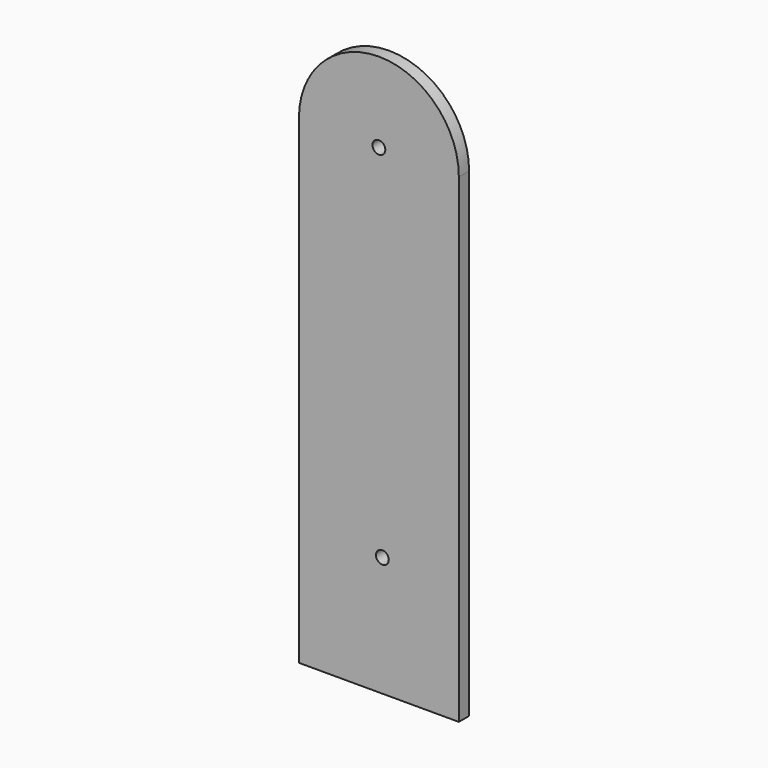
from build123d import *

# Parameters (mm, degrees)
F0_R     = 1.6
F1_DEPTH = 3.2


with BuildPart() as f1:
    # F0 (on Front) → F1 (new body)
    with BuildSketch(Plane.XZ):
        with BuildLine():
            Line((-49.253721, -67.797214), (-9.253721, -67.797214))
            Line((-9.253721, -67.797214), (-9.253721, 52.202786))
            ThreePointArc((-9.253721, 52.202786), (-29.253721, 72.202786), (-49.253721, 52.202786))
            Line((-49.253721, 52.202786), (-49.253721, -67.797214))
        make_face()
        with Locations((-28.385084, -37.797214)):
            Circle(F0_R, mode=Mode.SUBTRACT)
        with Locations((-29.253721, 52.202786)):
            Circle(F0_R, mode=Mode.SUBTRACT)
    extrude(amount=F1_DEPTH)


solid = f1.part
